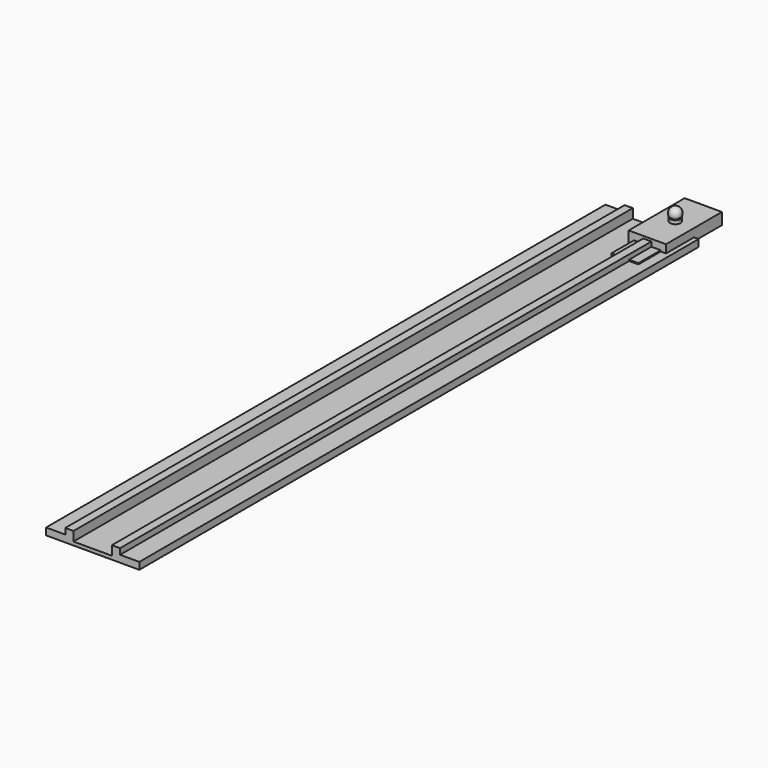
from build123d import *

# Parameters (mm, degrees)
F0_W           = 35
F0_H           = 25
F1_DEPTH       = 3000
F2_W           = 165
F2_H           = 15
F3_DEPTH       = 3000.001
F4_W           = 115
F4_H           = 40
F5_DEPTH       = 270
F7_D           = 45
F10_W          = 160
F10_H          = 50
F11_DEPTH      = 150
F11_DEPTH_BACK = 150
F15_DEPTH      = 150
F15_DEPTH_BACK = 150
F17_DEPTH      = 3150.001


with BuildPart() as f1:
    # F0 (on Front) → F1 (new body)
    with BuildSketch(Plane.XZ):
        with Locations((0, 27.5)):
            Rectangle(F0_W, F0_H)
        Polygon((-100, -15), (100, -15), (100, 15), (17.5, 15), (-17.5, 15), (-100, 15), align=None)
        with Locations((-200, 27.5)):
            Rectangle(F0_W, F0_H)
        Polygon((-300, -15), (-100, -15), (-100, 15), (-182.5, 15), (-217.5, 15), (-300, 15), align=None)
    extrude(amount=F1_DEPTH)

    # F2 (on face) → F3 (cut, through all)
    with BuildSketch(Plane.XZ.offset(3000)):
        with Locations((-100, 7.5)):
            Rectangle(F2_W, F2_H)
    extrude(amount=-F3_DEPTH, mode=Mode.SUBTRACT)


with BuildPart() as f5:
    # F4 (on Front) → F5 (new body)
    with BuildSketch(Plane.XZ):
        Rectangle(F4_W, F4_H)
    extrude(amount=F5_DEPTH)

    # F7 (through all)
    with Locations(Plane.XY.offset(20)):
        with Locations((0, -135)):
            Hole(F7_D / 2)


with BuildPart() as f9:
    # F8 (on Right) → F9 (revolve)
    with BuildSketch(Plane.YZ):
        with BuildLine():
            Line((-22.5, 65), (-22.5, 0))
            Line((-22.5, 0), (0, 0))
            Line((0, 0), (0, 80.8972473589))
            Line((0, 80.8972473589), (0, 105.8972473589))
            ThreePointArc((0, 105.8972473589), (-21.1829080153, 94.1744612238), (-22.5, 70))
            Line((-22.5, 70), (-17.5, 70))
            Line((-17.5, 70), (-17.5, 65))
            Line((-17.5, 65), (-22.5, 65))
        make_face()
    revolve(axis=Axis((0, 0, 40.4486236794), (0, 0, 1)))


with BuildPart() as f11:
    # F10 (on Front) → F11 (new body, two sides)
    with BuildSketch(Plane.XZ) as f11_sk:
        with Locations((0, 25)):
            Rectangle(F10_W, F10_H)
    extrude(amount=F11_DEPTH)
    extrude(f11_sk.sketch, amount=-F11_DEPTH_BACK)


with BuildPart() as f13:
    # F12 (on Front) → F13 (revolve)
    with BuildSketch(Plane.XZ):
        with BuildLine():
            Line((0, 0), (25, 0))
            ThreePointArc((25, 0), (17.6776695297, 17.6776695297), (0, 25))
            Line((0, 25), (0, 0))
        make_face()
    revolve(axis=Axis((0, 0, 12.5), (0, 0, -1)))


with BuildPart() as f11_1:
    add(f11.part)

    # F14: cut F13
    add(f13.part, mode=Mode.SUBTRACT)


with BuildPart() as f15:
    # F10 (on Front) → F15 (new body, two sides)
    with BuildSketch(Plane.XZ) as f15_sk:
        with Locations((0, 25)):
            Rectangle(F10_W, F10_H)
    extrude(amount=F15_DEPTH)
    extrude(f15_sk.sketch, amount=-F15_DEPTH_BACK)

    # F16 (on face) → F17 (cut, through all)
    with BuildSketch(Plane(origin=(0, 150, 0), x_dir=(-1, 0, 0), z_dir=(0, 1, 0))):
        Polygon((0, 30), (-45.2267016867, 0), (45.2267016867, 0), align=None)
    extrude(amount=-F17_DEPTH, mode=Mode.SUBTRACT)


solid = Compound([f1.part, f5.part, f9.part, f11_1.part, f15.part])
